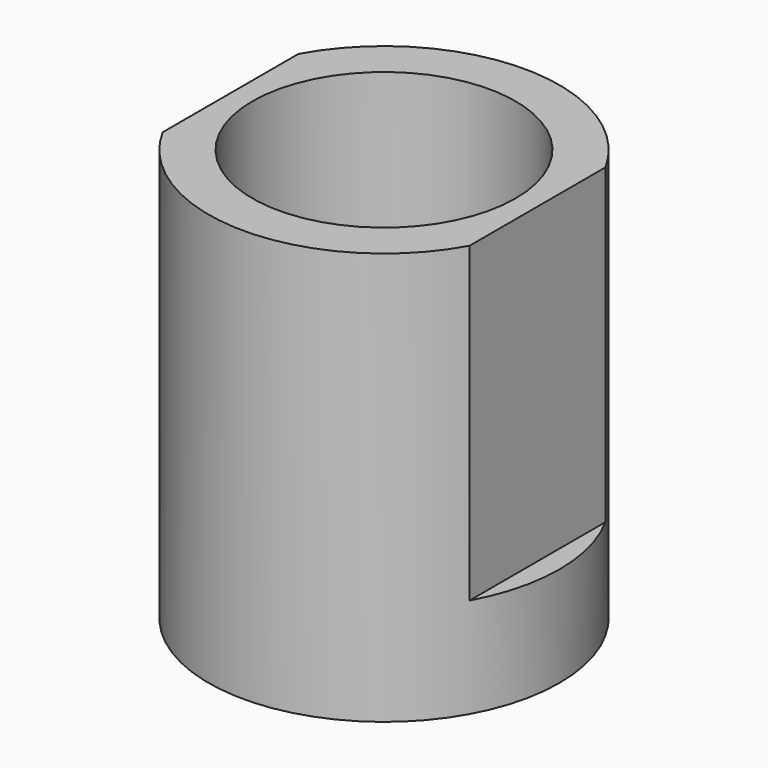
from build123d import *

# Parameters (mm, degrees)
F0_R     = 4
F0_R_2   = 3
F1_DEPTH = 9.4
F3_DEPTH = 7.12


with BuildPart() as f1:
    # F0 (on Top) → F1 (new body)
    with BuildSketch(Plane.XY):
        Circle(F0_R)
        Circle(F0_R_2, mode=Mode.SUBTRACT)
    extrude(amount=F1_DEPTH)

    # F2 (on face) → F3 (cut)
    with BuildSketch(Plane.XY.offset(9.4)):
        with BuildLine():
            Line((-3.5, -1.9364916731), (-3.5, 1.9364916731))
            ThreePointArc((-3.5, 1.9364916731), (-4, 0), (-3.5, -1.9364916731))
        make_face()
        with BuildLine():
            ThreePointArc((4, 0), (3.8729833462, 1), (3.5, 1.9364916731))
            Line((3.5, 1.9364916731), (3.5, -1.9364916731))
            ThreePointArc((3.5, -1.9364916731), (3.8729833462, -1), (4, 0))
        make_face()
    extrude(amount=-F3_DEPTH, mode=Mode.SUBTRACT)


solid = f1.part
